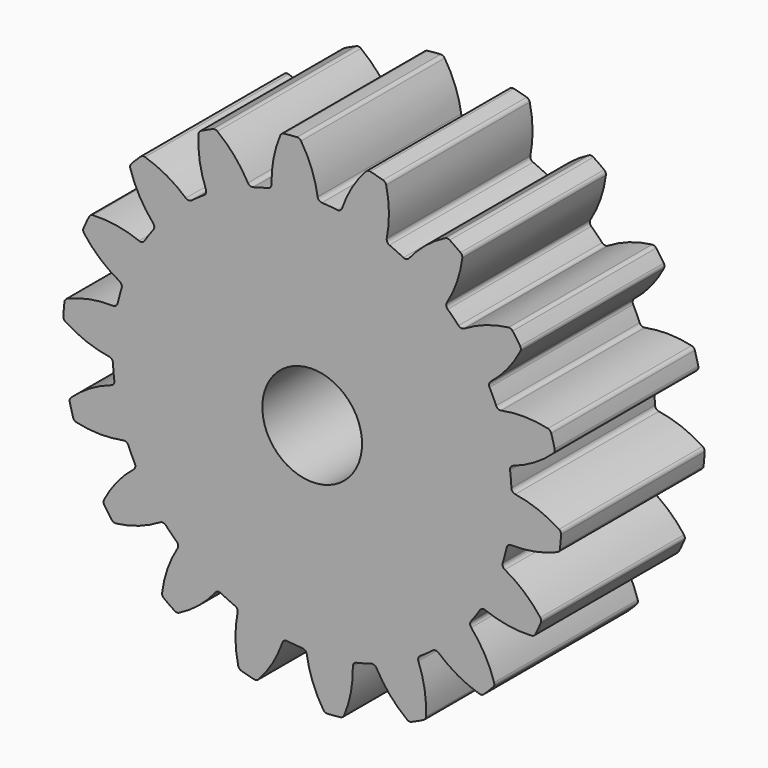
from build123d import *

# Parameters (mm, degrees)
F1_DEPTH = 3.6
F2_R     = 1
F3_DEPTH = 3.601


with BuildPart() as f1:
    # F0 (on Front) → F1 (new body)
    with BuildSketch(Plane.XZ):
        with BuildLine():
            ThreePointArc((0.10969, 4.07153), (-0.010463, 4.528161), (-0.223268, 4.949661))
            ThreePointArc((-0.223268, 4.949661), (-0.258261, 4.981191), (-0.304388, 4.990726))
            ThreePointArc((-0.304388, 4.990726), (-0.435779, 4.980973), (-0.566867, 4.967762))
            ThreePointArc((-0.566867, 4.967762), (-0.610637, 4.950362), (-0.639624, 4.913235))
            ThreePointArc((-0.639624, 4.913235), (-0.776003, 4.461185), (-0.815037, 3.990627))
            ThreePointArc((-0.815037, 3.990627), (-0.834062, 3.933246), (-0.8851, 3.900846))
            ThreePointArc((-0.8851, 3.900846), (-1.035276, 3.863703), (-1.183904, 3.820782))
            ThreePointArc((-1.183904, 3.820782), (-1.690473, 3.625231), (-2.16589, 3.362874))
            ThreePointArc((-2.16589, 3.362874), (-2.294306, 3.276608), (-2.41929, 3.185441))
            ThreePointArc((-2.41929, 3.185441), (-2.828427, 2.828427), (-3.185441, 2.41929))
            ThreePointArc((-3.185441, 2.41929), (-3.276608, 2.294306), (-3.362874, 2.16589))
            ThreePointArc((-3.362874, 2.16589), (-3.625231, 1.690473), (-3.820782, 1.183904))
            ThreePointArc((-3.820782, 1.183904), (-3.863703, 1.035276), (-3.900846, 0.8851))
            ThreePointArc((-3.900846, 0.8851), (-3.984779, 0.348623), (-3.995279, -0.194278))
            ThreePointArc((-3.995279, -0.194278), (-3.984779, -0.348623), (-3.968318, -0.502446))
            ThreePointArc((-3.968318, -0.502446), (-3.863703, -1.035276), (-3.687887, -1.549028))
            ThreePointArc((-3.687887, -1.549028), (-3.625231, -1.690473), (-3.557152, -1.82939))
            ThreePointArc((-3.557152, -1.82939), (-3.276608, -2.294306), (-2.935682, -2.716942))
            ThreePointArc((-2.935682, -2.716942), (-2.828427, -2.828427), (-2.716942, -2.935682))
            ThreePointArc((-2.716942, -2.935682), (-2.294306, -3.276608), (-1.82939, -3.557152))
            ThreePointArc((-1.82939, -3.557152), (-1.690473, -3.625231), (-1.549028, -3.687887))
            ThreePointArc((-1.549028, -3.687887), (-1.035276, -3.863703), (-0.502446, -3.968318))
            ThreePointArc((-0.502446, -3.968318), (-0.348623, -3.984779), (-0.194278, -3.995279))
            ThreePointArc((-0.194278, -3.995279), (0.348623, -3.984779), (0.8851, -3.900846))
            ThreePointArc((0.8851, -3.900846), (1.035276, -3.863703), (1.183904, -3.820782))
            ThreePointArc((1.183904, -3.820782), (1.690473, -3.625231), (2.16589, -3.362874))
            ThreePointArc((2.16589, -3.362874), (2.294306, -3.276608), (2.41929, -3.185441))
            ThreePointArc((2.41929, -3.185441), (2.828427, -2.828427), (3.185441, -2.41929))
            ThreePointArc((3.185441, -2.41929), (3.276608, -2.294306), (3.362874, -2.16589))
            ThreePointArc((3.362874, -2.16589), (3.625231, -1.690473), (3.820782, -1.183904))
            ThreePointArc((3.820782, -1.183904), (3.863703, -1.035276), (3.900846, -0.8851))
            ThreePointArc((3.900846, -0.8851), (3.984779, -0.348623), (3.995279, 0.194278))
            ThreePointArc((3.995279, 0.194278), (3.984779, 0.348623), (3.968318, 0.502446))
            ThreePointArc((3.968318, 0.502446), (3.863703, 1.035276), (3.687887, 1.549028))
            ThreePointArc((3.687887, 1.549028), (3.625231, 1.690473), (3.557152, 1.82939))
            ThreePointArc((3.557152, 1.82939), (3.276608, 2.294306), (2.935682, 2.716942))
            ThreePointArc((2.935682, 2.716942), (2.828427, 2.828427), (2.716942, 2.935682))
            ThreePointArc((2.716942, 2.935682), (2.294306, 3.276608), (1.82939, 3.557152))
            ThreePointArc((1.82939, 3.557152), (1.690473, 3.625231), (1.549028, 3.687887))
            ThreePointArc((1.549028, 3.687887), (1.035276, 3.863703), (0.502446, 3.968318))
            ThreePointArc((0.502446, 3.968318), (0.348623, 3.984779), (0.194278, 3.995279))
            ThreePointArc((0.194278, 3.995279), (0.13839, 4.018324), (0.10969, 4.07153))
        make_face()
        with BuildLine():
            ThreePointArc((0.59899, 4.028722), (0.561487, 3.981308), (0.502446, 3.968318))
            ThreePointArc((0.502446, 3.968318), (1.035276, 3.863703), (1.549028, 3.687887))
            ThreePointArc((1.549028, 3.687887), (1.504392, 3.728657), (1.49562, 3.788471))
            ThreePointArc((1.49562, 3.788471), (1.53889, 4.258658), (1.483081, 4.727522))
            ThreePointArc((1.483081, 4.727522), (1.460982, 4.769119), (1.420897, 4.793855))
            ThreePointArc((1.420897, 4.793855), (1.294095, 4.829629), (1.166394, 4.862049))
            ThreePointArc((1.166394, 4.862049), (1.119312, 4.860669), (1.079375, 4.835695))
            ThreePointArc((1.079375, 4.835695), (0.796611, 4.457551), (0.59899, 4.028722))
        make_face()
        with BuildLine():
            ThreePointArc((1.940771, 3.580893), (1.889313, 3.549166), (1.82939, 3.557152))
            ThreePointArc((1.82939, 3.557152), (2.294306, 3.276608), (2.716942, 2.935682))
            ThreePointArc((2.716942, 2.935682), (2.688942, 2.989259), (2.701156, 3.048466))
            ThreePointArc((2.701156, 3.048466), (2.90263, 3.475498), (3.010548, 3.935174))
            ThreePointArc((3.010548, 3.935174), (3.004008, 3.981821), (2.974802, 4.018775))
            ThreePointArc((2.974802, 4.018775), (2.867882, 4.09576), (2.758971, 4.169902))
            ThreePointArc((2.758971, 4.169902), (2.714256, 4.184707), (2.668186, 4.174899))
            ThreePointArc((2.668186, 4.174899), (2.273142, 3.916271), (1.940771, 3.580893))
        make_face()
        with BuildLine():
            ThreePointArc((-2.16589, 3.362874), (-1.690473, 3.625231), (-1.183904, 3.820782))
            ThreePointArc((-1.183904, 3.820782), (-1.244304, 3.823322), (-1.289471, 3.863503))
            ThreePointArc((-1.289471, 3.863503), (-1.558554, 4.251501), (-1.902687, 4.574798))
            ThreePointArc((-1.902687, 4.574798), (-1.946354, 4.592458), (-1.99296, 4.585642))
            ThreePointArc((-1.99296, 4.585642), (-2.113091, 4.531539), (-2.231755, 4.47429))
            ThreePointArc((-2.231755, 4.47429), (-2.266935, 4.442968), (-2.281475, 4.398166))
            ThreePointArc((-2.281475, 4.398166), (-2.255019, 3.926734), (-2.130759, 3.471204))
            ThreePointArc((-2.130759, 3.471204), (-2.129011, 3.410776), (-2.16589, 3.362874))
        make_face()
        with BuildLine():
            ThreePointArc((3.048466, 2.701156), (2.989259, 2.688942), (2.935682, 2.716942))
            ThreePointArc((2.935682, 2.716942), (3.276608, 2.294306), (3.557152, 1.82939))
            ThreePointArc((3.557152, 1.82939), (3.549166, 1.889313), (3.580893, 1.940771))
            ThreePointArc((3.580893, 1.940771), (3.916271, 2.273142), (4.174899, 2.668186))
            ThreePointArc((4.174899, 2.668186), (4.184707, 2.714256), (4.169902, 2.758971))
            ThreePointArc((4.169902, 2.758971), (4.09576, 2.867882), (4.018775, 2.974802))
            ThreePointArc((4.018775, 2.974802), (3.981821, 3.004008), (3.935174, 3.010548))
            ThreePointArc((3.935174, 3.010548), (3.475498, 2.90263), (3.048466, 2.701156))
        make_face()
        with BuildLine():
            ThreePointArc((-3.185441, 2.41929), (-2.828427, 2.828427), (-2.41929, 3.185441))
            ThreePointArc((-2.41929, 3.185441), (-2.476916, 3.16717), (-2.533102, 3.18948))
            ThreePointArc((-2.533102, 3.18948), (-2.918661, 3.462047), (-3.352614, 3.648147))
            ThreePointArc((-3.352614, 3.648147), (-3.399687, 3.649807), (-3.441152, 3.627461))
            ThreePointArc((-3.441152, 3.627461), (-3.535534, 3.535534), (-3.627461, 3.441152))
            ThreePointArc((-3.627461, 3.441152), (-3.649807, 3.399687), (-3.648147, 3.352614))
            ThreePointArc((-3.648147, 3.352614), (-3.462047, 2.918661), (-3.18948, 2.533102))
            ThreePointArc((-3.18948, 2.533102), (-3.16717, 2.476916), (-3.185441, 2.41929))
        make_face()
        with BuildLine():
            ThreePointArc((3.788471, 1.49562), (3.728657, 1.504392), (3.687887, 1.549028))
            ThreePointArc((3.687887, 1.549028), (3.863703, 1.035276), (3.968318, 0.502446))
            ThreePointArc((3.968318, 0.502446), (3.981308, 0.561487), (4.028722, 0.59899))
            ThreePointArc((4.028722, 0.59899), (4.457551, 0.796611), (4.835695, 1.079375))
            ThreePointArc((4.835695, 1.079375), (4.860669, 1.119312), (4.862049, 1.166394))
            ThreePointArc((4.862049, 1.166394), (4.829629, 1.294095), (4.793855, 1.420897))
            ThreePointArc((4.793855, 1.420897), (4.769119, 1.460982), (4.727522, 1.483081))
            ThreePointArc((4.727522, 1.483081), (4.258658, 1.53889), (3.788471, 1.49562))
        make_face()
        with BuildLine():
            ThreePointArc((-3.820782, 1.183904), (-3.625231, 1.690473), (-3.362874, 2.16589))
            ThreePointArc((-3.362874, 2.16589), (-3.410776, 2.129011), (-3.471204, 2.130759))
            ThreePointArc((-3.471204, 2.130759), (-3.926734, 2.255019), (-4.398166, 2.281475))
            ThreePointArc((-4.398166, 2.281475), (-4.442968, 2.266935), (-4.47429, 2.231755))
            ThreePointArc((-4.47429, 2.231755), (-4.531539, 2.113091), (-4.585642, 1.99296))
            ThreePointArc((-4.585642, 1.99296), (-4.592458, 1.946354), (-4.574798, 1.902687))
            ThreePointArc((-4.574798, 1.902687), (-4.251501, 1.558554), (-3.863503, 1.289471))
            ThreePointArc((-3.863503, 1.289471), (-3.823322, 1.244304), (-3.820782, 1.183904))
        make_face()
        with BuildLine():
            ThreePointArc((4.07153, 0.10969), (4.018324, 0.13839), (3.995279, 0.194278))
            ThreePointArc((3.995279, 0.194278), (3.984779, -0.348623), (3.900846, -0.8851))
            ThreePointArc((3.900846, -0.8851), (3.933246, -0.834062), (3.990627, -0.815037))
            ThreePointArc((3.990627, -0.815037), (4.461185, -0.776003), (4.913235, -0.639624))
            ThreePointArc((4.913235, -0.639624), (4.950362, -0.610637), (4.967762, -0.566867))
            ThreePointArc((4.967762, -0.566867), (4.980973, -0.435779), (4.990726, -0.304388))
            ThreePointArc((4.990726, -0.304388), (4.981191, -0.258261), (4.949661, -0.223268))
            ThreePointArc((4.949661, -0.223268), (4.528161, -0.010463), (4.07153, 0.10969))
        make_face()
        with BuildLine():
            ThreePointArc((-3.995279, -0.194278), (-3.984779, 0.348623), (-3.900846, 0.8851))
            ThreePointArc((-3.900846, 0.8851), (-3.933246, 0.834062), (-3.990627, 0.815037))
            ThreePointArc((-3.990627, 0.815037), (-4.461185, 0.776003), (-4.913235, 0.639624))
            ThreePointArc((-4.913235, 0.639624), (-4.950362, 0.610637), (-4.967762, 0.566867))
            ThreePointArc((-4.967762, 0.566867), (-4.980973, 0.435779), (-4.990726, 0.304388))
            ThreePointArc((-4.990726, 0.304388), (-4.981191, 0.258261), (-4.949661, 0.223268))
            ThreePointArc((-4.949661, 0.223268), (-4.528161, 0.010463), (-4.07153, -0.10969))
            ThreePointArc((-4.07153, -0.10969), (-4.018324, -0.13839), (-3.995279, -0.194278))
        make_face()
        with BuildLine():
            ThreePointArc((3.863503, -1.289471), (3.823322, -1.244304), (3.820782, -1.183904))
            ThreePointArc((3.820782, -1.183904), (3.625231, -1.690473), (3.362874, -2.16589))
            ThreePointArc((3.362874, -2.16589), (3.410776, -2.129011), (3.471204, -2.130759))
            ThreePointArc((3.471204, -2.130759), (3.926734, -2.255019), (4.398166, -2.281475))
            ThreePointArc((4.398166, -2.281475), (4.442968, -2.266935), (4.47429, -2.231755))
            ThreePointArc((4.47429, -2.231755), (4.531539, -2.113091), (4.585642, -1.99296))
            ThreePointArc((4.585642, -1.99296), (4.592458, -1.946354), (4.574798, -1.902687))
            ThreePointArc((4.574798, -1.902687), (4.251501, -1.558554), (3.863503, -1.289471))
        make_face()
        with BuildLine():
            ThreePointArc((-3.687887, -1.549028), (-3.863703, -1.035276), (-3.968318, -0.502446))
            ThreePointArc((-3.968318, -0.502446), (-3.981308, -0.561487), (-4.028722, -0.59899))
            ThreePointArc((-4.028722, -0.59899), (-4.457551, -0.796611), (-4.835695, -1.079375))
            ThreePointArc((-4.835695, -1.079375), (-4.860669, -1.119312), (-4.862049, -1.166394))
            ThreePointArc((-4.862049, -1.166394), (-4.829629, -1.294095), (-4.793855, -1.420897))
            ThreePointArc((-4.793855, -1.420897), (-4.769119, -1.460982), (-4.727522, -1.483081))
            ThreePointArc((-4.727522, -1.483081), (-4.258658, -1.53889), (-3.788471, -1.49562))
            ThreePointArc((-3.788471, -1.49562), (-3.728657, -1.504392), (-3.687887, -1.549028))
        make_face()
        with BuildLine():
            ThreePointArc((3.18948, -2.533102), (3.16717, -2.476916), (3.185441, -2.41929))
            ThreePointArc((3.185441, -2.41929), (2.828427, -2.828427), (2.41929, -3.185441))
            ThreePointArc((2.41929, -3.185441), (2.476916, -3.16717), (2.533102, -3.18948))
            ThreePointArc((2.533102, -3.18948), (2.918661, -3.462047), (3.352614, -3.648147))
            ThreePointArc((3.352614, -3.648147), (3.399687, -3.649807), (3.441152, -3.627461))
            ThreePointArc((3.441152, -3.627461), (3.535534, -3.535534), (3.627461, -3.441152))
            ThreePointArc((3.627461, -3.441152), (3.649807, -3.399687), (3.648147, -3.352614))
            ThreePointArc((3.648147, -3.352614), (3.462047, -2.918661), (3.18948, -2.533102))
        make_face()
        with BuildLine():
            ThreePointArc((-2.935682, -2.716942), (-3.276608, -2.294306), (-3.557152, -1.82939))
            ThreePointArc((-3.557152, -1.82939), (-3.549166, -1.889313), (-3.580893, -1.940771))
            ThreePointArc((-3.580893, -1.940771), (-3.916271, -2.273142), (-4.174899, -2.668186))
            ThreePointArc((-4.174899, -2.668186), (-4.184707, -2.714256), (-4.169902, -2.758971))
            ThreePointArc((-4.169902, -2.758971), (-4.09576, -2.867882), (-4.018775, -2.974802))
            ThreePointArc((-4.018775, -2.974802), (-3.981821, -3.004008), (-3.935174, -3.010548))
            ThreePointArc((-3.935174, -3.010548), (-3.475498, -2.90263), (-3.048466, -2.701156))
            ThreePointArc((-3.048466, -2.701156), (-2.989259, -2.688942), (-2.935682, -2.716942))
        make_face()
        with BuildLine():
            ThreePointArc((2.130759, -3.471204), (2.129011, -3.410776), (2.16589, -3.362874))
            ThreePointArc((2.16589, -3.362874), (1.690473, -3.625231), (1.183904, -3.820782))
            ThreePointArc((1.183904, -3.820782), (1.244304, -3.823322), (1.289471, -3.863503))
            ThreePointArc((1.289471, -3.863503), (1.558554, -4.251501), (1.902687, -4.574798))
            ThreePointArc((1.902687, -4.574798), (1.946354, -4.592458), (1.99296, -4.585642))
            ThreePointArc((1.99296, -4.585642), (2.113091, -4.531539), (2.231755, -4.47429))
            ThreePointArc((2.231755, -4.47429), (2.266935, -4.442968), (2.281475, -4.398166))
            ThreePointArc((2.281475, -4.398166), (2.255019, -3.926734), (2.130759, -3.471204))
        make_face()
        with BuildLine():
            ThreePointArc((-1.82939, -3.557152), (-2.294306, -3.276608), (-2.716942, -2.935682))
            ThreePointArc((-2.716942, -2.935682), (-2.688942, -2.989259), (-2.701156, -3.048466))
            ThreePointArc((-2.701156, -3.048466), (-2.90263, -3.475498), (-3.010548, -3.935174))
            ThreePointArc((-3.010548, -3.935174), (-3.004008, -3.981821), (-2.974802, -4.018775))
            ThreePointArc((-2.974802, -4.018775), (-2.867882, -4.09576), (-2.758971, -4.169902))
            ThreePointArc((-2.758971, -4.169902), (-2.714256, -4.184707), (-2.668186, -4.174899))
            ThreePointArc((-2.668186, -4.174899), (-2.273142, -3.916271), (-1.940771, -3.580893))
            ThreePointArc((-1.940771, -3.580893), (-1.889313, -3.549166), (-1.82939, -3.557152))
        make_face()
        with BuildLine():
            ThreePointArc((0.815037, -3.990627), (0.834062, -3.933246), (0.8851, -3.900846))
            ThreePointArc((0.8851, -3.900846), (0.348623, -3.984779), (-0.194278, -3.995279))
            ThreePointArc((-0.194278, -3.995279), (-0.13839, -4.018324), (-0.10969, -4.07153))
            ThreePointArc((-0.10969, -4.07153), (0.010463, -4.528161), (0.223268, -4.949661))
            ThreePointArc((0.223268, -4.949661), (0.258261, -4.981191), (0.304388, -4.990726))
            ThreePointArc((0.304388, -4.990726), (0.435779, -4.980973), (0.566867, -4.967762))
            ThreePointArc((0.566867, -4.967762), (0.610637, -4.950362), (0.639624, -4.913235))
            ThreePointArc((0.639624, -4.913235), (0.776003, -4.461185), (0.815037, -3.990627))
        make_face()
        with BuildLine():
            ThreePointArc((-0.502446, -3.968318), (-1.035276, -3.863703), (-1.549028, -3.687887))
            ThreePointArc((-1.549028, -3.687887), (-1.504392, -3.728657), (-1.49562, -3.788471))
            ThreePointArc((-1.49562, -3.788471), (-1.53889, -4.258658), (-1.483081, -4.727522))
            ThreePointArc((-1.483081, -4.727522), (-1.460982, -4.769119), (-1.420897, -4.793855))
            ThreePointArc((-1.420897, -4.793855), (-1.294095, -4.829629), (-1.166394, -4.862049))
            ThreePointArc((-1.166394, -4.862049), (-1.119312, -4.860669), (-1.079375, -4.835695))
            ThreePointArc((-1.079375, -4.835695), (-0.796611, -4.457551), (-0.59899, -4.028722))
            ThreePointArc((-0.59899, -4.028722), (-0.561487, -3.981308), (-0.502446, -3.968318))
        make_face()
        with BuildLine():
            ThreePointArc((0.10969, 4.07153), (-0.010463, 4.528161), (-0.223268, 4.949661))
            ThreePointArc((-0.223268, 4.949661), (-0.258261, 4.981191), (-0.304388, 4.990726))
            ThreePointArc((-0.304388, 4.990726), (-0.435779, 4.980973), (-0.566867, 4.967762))
            ThreePointArc((-0.566867, 4.967762), (-0.610637, 4.950362), (-0.639624, 4.913235))
            ThreePointArc((-0.639624, 4.913235), (-0.776003, 4.461185), (-0.815037, 3.990627))
            ThreePointArc((-0.815037, 3.990627), (-0.834062, 3.933246), (-0.8851, 3.900846))
            ThreePointArc((-0.8851, 3.900846), (-1.035276, 3.863703), (-1.183904, 3.820782))
            ThreePointArc((-1.183904, 3.820782), (-1.690473, 3.625231), (-2.16589, 3.362874))
            ThreePointArc((-2.16589, 3.362874), (-2.294306, 3.276608), (-2.41929, 3.185441))
            ThreePointArc((-2.41929, 3.185441), (-2.828427, 2.828427), (-3.185441, 2.41929))
            ThreePointArc((-3.185441, 2.41929), (-3.276608, 2.294306), (-3.362874, 2.16589))
            ThreePointArc((-3.362874, 2.16589), (-3.625231, 1.690473), (-3.820782, 1.183904))
            ThreePointArc((-3.820782, 1.183904), (-3.863703, 1.035276), (-3.900846, 0.8851))
            ThreePointArc((-3.900846, 0.8851), (-3.984779, 0.348623), (-3.995279, -0.194278))
            ThreePointArc((-3.995279, -0.194278), (-3.984779, -0.348623), (-3.968318, -0.502446))
            ThreePointArc((-3.968318, -0.502446), (-3.863703, -1.035276), (-3.687887, -1.549028))
            ThreePointArc((-3.687887, -1.549028), (-3.625231, -1.690473), (-3.557152, -1.82939))
            ThreePointArc((-3.557152, -1.82939), (-3.276608, -2.294306), (-2.935682, -2.716942))
            ThreePointArc((-2.935682, -2.716942), (-2.828427, -2.828427), (-2.716942, -2.935682))
            ThreePointArc((-2.716942, -2.935682), (-2.294306, -3.276608), (-1.82939, -3.557152))
            ThreePointArc((-1.82939, -3.557152), (-1.690473, -3.625231), (-1.549028, -3.687887))
            ThreePointArc((-1.549028, -3.687887), (-1.035276, -3.863703), (-0.502446, -3.968318))
            ThreePointArc((-0.502446, -3.968318), (-0.348623, -3.984779), (-0.194278, -3.995279))
            ThreePointArc((-0.194278, -3.995279), (0.348623, -3.984779), (0.8851, -3.900846))
            ThreePointArc((0.8851, -3.900846), (1.035276, -3.863703), (1.183904, -3.820782))
            ThreePointArc((1.183904, -3.820782), (1.690473, -3.625231), (2.16589, -3.362874))
            ThreePointArc((2.16589, -3.362874), (2.294306, -3.276608), (2.41929, -3.185441))
            ThreePointArc((2.41929, -3.185441), (2.828427, -2.828427), (3.185441, -2.41929))
            ThreePointArc((3.185441, -2.41929), (3.276608, -2.294306), (3.362874, -2.16589))
            ThreePointArc((3.362874, -2.16589), (3.625231, -1.690473), (3.820782, -1.183904))
            ThreePointArc((3.820782, -1.183904), (3.863703, -1.035276), (3.900846, -0.8851))
            ThreePointArc((3.900846, -0.8851), (3.984779, -0.348623), (3.995279, 0.194278))
            ThreePointArc((3.995279, 0.194278), (3.984779, 0.348623), (3.968318, 0.502446))
            ThreePointArc((3.968318, 0.502446), (3.863703, 1.035276), (3.687887, 1.549028))
            ThreePointArc((3.687887, 1.549028), (3.625231, 1.690473), (3.557152, 1.82939))
            ThreePointArc((3.557152, 1.82939), (3.276608, 2.294306), (2.935682, 2.716942))
            ThreePointArc((2.935682, 2.716942), (2.828427, 2.828427), (2.716942, 2.935682))
            ThreePointArc((2.716942, 2.935682), (2.294306, 3.276608), (1.82939, 3.557152))
            ThreePointArc((1.82939, 3.557152), (1.690473, 3.625231), (1.549028, 3.687887))
            ThreePointArc((1.549028, 3.687887), (1.035276, 3.863703), (0.502446, 3.968318))
            ThreePointArc((0.502446, 3.968318), (0.348623, 3.984779), (0.194278, 3.995279))
            ThreePointArc((0.194278, 3.995279), (0.13839, 4.018324), (0.10969, 4.07153))
        make_face()
    extrude(amount=F1_DEPTH)

    # F2 (on face) → F3 (cut, through all)
    with BuildSketch(Plane.XZ.offset(3.6)):
        Circle(F2_R)
    extrude(amount=-F3_DEPTH, mode=Mode.SUBTRACT)


solid = f1.part
